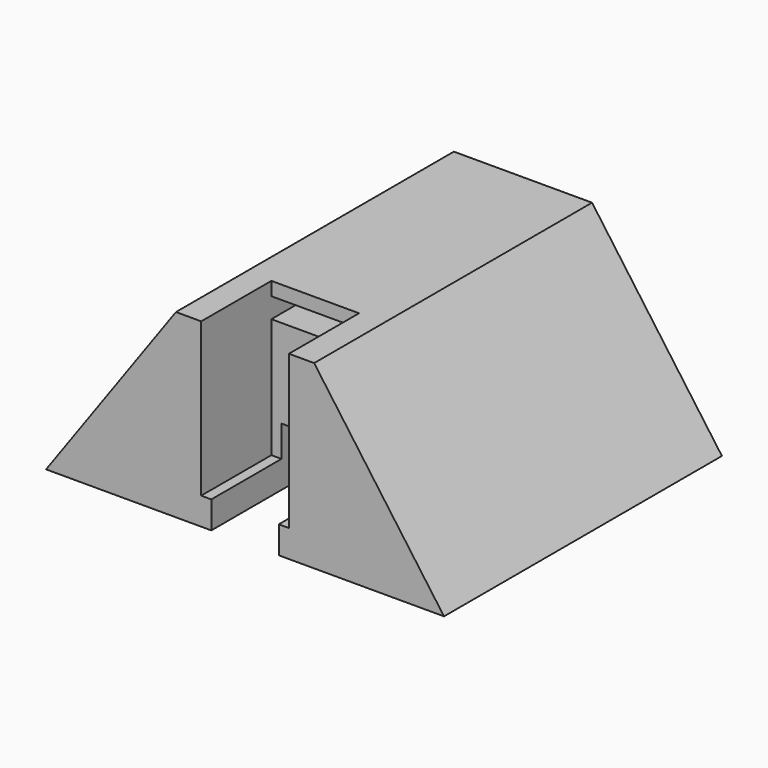
from build123d import *

# Parameters (mm, degrees)
F0_W      = 19.25
F0_H      = 51.5
F0_W_2    = 20.5
F1_DEPTH  = 26.8
F2_W      = 13
F2_H      = 13
F3_DEPTH  = 26.8
F4_W      = 1.5
F4_H      = 13
F5_DEPTH  = 4.05
F7_DEPTH  = 51.501
F8_W      = 10
F8_H      = 8.67
F9_DEPTH  = 38.501
F10_W     = 13
F10_H     = 3
F11_DEPTH = 5


with BuildPart() as f1:
    # F0 (on Top) → F1 (new body)
    with BuildSketch(Plane.XY):
        with Locations((19.875, 0)):
            Rectangle(F0_W, F0_H)
        Rectangle(F0_W_2, F0_H)
        with Locations((-19.875, 0)):
            Rectangle(F0_W, F0_H)
    extrude(amount=F1_DEPTH)

    # F2 (on face) → F3 (cut)
    with BuildSketch(Plane.XY.offset(26.8)):
        with Locations((0, -19.25)):
            Rectangle(F2_W, F2_H)
    extrude(amount=-F3_DEPTH, mode=Mode.SUBTRACT)

    # F4 (on face) → F5 (join)
    with BuildSketch(Plane.XY):
        with Locations((-5.75, -19.25)):
            Rectangle(F4_W, F4_H)
        with Locations((5.75, -19.25)):
            Rectangle(F4_W, F4_H)
    extrude(amount=F5_DEPTH)

    # F6 (on face) → F7 (cut, through all)
    with BuildSketch(Plane.XZ.offset(25.75)):
        Polygon((-29.5, 26.8), (-29.5, 0), (-10.244871, 26.8), align=None)
        Polygon((10.244871, 26.8), (29.5, 0), (29.5, 26.8), align=None)
    extrude(amount=-F7_DEPTH, mode=Mode.SUBTRACT)

    # F8 (on face) → F9 (cut, through all)
    with BuildSketch(Plane.XZ.offset(12.75)):
        with Locations((0, 4.335)):
            Rectangle(F8_W, F8_H)
    extrude(amount=-F9_DEPTH, mode=Mode.SUBTRACT)

    # F10 (on face) → F11 (cut)
    with BuildSketch(Plane.XZ.offset(12.75)):
        with Locations((0, 23.3)):
            Rectangle(F10_W, F10_H)
    extrude(amount=-F11_DEPTH, mode=Mode.SUBTRACT)


solid = f1.part
